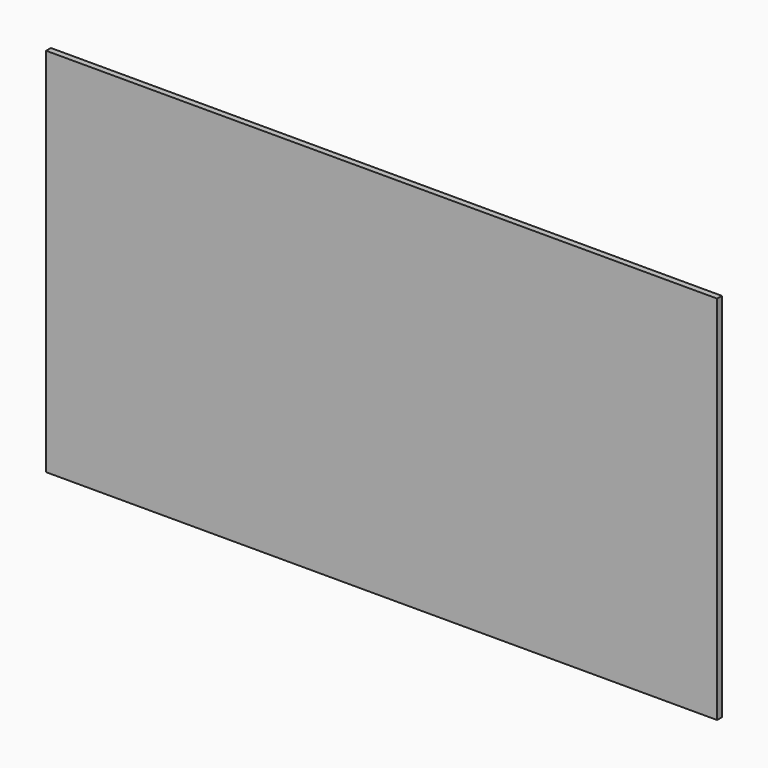
from build123d import *

# Parameters (mm, degrees)
F0_W     = 1100
F0_H     = 599.24144
F1_DEPTH = 10
F2_DEPTH = 10
F3_DEPTH = 10
F4_DEPTH = 10
F5_DEPTH = 10


with BuildPart() as f1:
    # F0 (on Front) → F1 (new body)
    with BuildSketch(Plane.XZ):
        with Locations((-85.8353115618, -566.4160771686)):
            Rectangle(F0_W, F0_H)
    extrude(amount=F1_DEPTH)

    # F2 (add): a face of the model
    f2_faces = [f1.faces().sort_by_distance(p)[0] for p in [
        (-85.8353115618, -5, -266.7953571686),
    ]]
    extrude(f2_faces, amount=F2_DEPTH)

    # F3 (add): a face of the model
    f3_faces = [f1.faces().sort_by_distance(p)[0] for p in [
        (-635.8353115618, -5, -561.4160771686),
    ]]
    extrude(f3_faces, amount=F3_DEPTH)

    # F4 (add): a face of the model
    f4_faces = [f1.faces().sort_by_distance(p)[0] for p in [
        (-90.8353115618, -5, -866.0367971686),
    ]]
    extrude(f4_faces, amount=F4_DEPTH)

    # F5 (add): a face of the model
    f5_faces = [f1.faces().sort_by_distance(p)[0] for p in [
        (464.1646884382, -5, -566.4160771686),
    ]]
    extrude(f5_faces, amount=F5_DEPTH)


solid = f1.part
